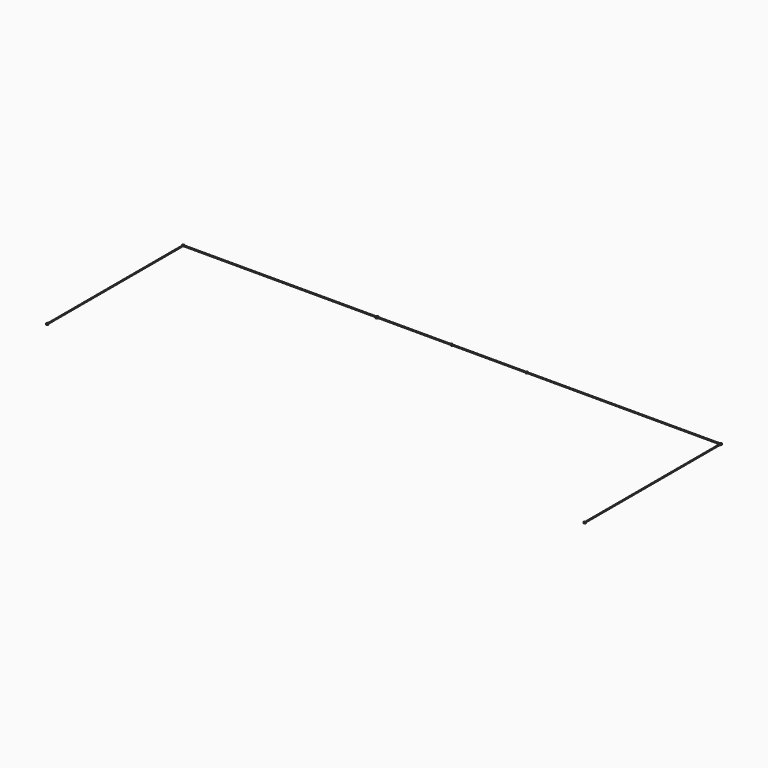
from build123d import *

# Parameters (mm, degrees)
F1_DEPTH = 25
F2_DEPTH = 25


with BuildPart() as f1:
    # F0 (on Top) → F1 (new body)
    with BuildSketch(Plane.XY):
        with BuildLine():
            ThreePointArc((-1815.0893998906, 2.5), (-1815.0223571132, 1.2507989787), (-1815, 0))
            ThreePointArc((-1815, 0), (-1815.0223571132, -1.2507989787), (-1815.0893998906, -2.5))
            Line((-1815.0893998906, -2.5), (-24.8746859277, -2.5))
            ThreePointArc((-24.8746859277, -2.5), (-25, 0), (-24.8746859277, 2.5))
            Line((-24.8746859277, 2.5), (-1815.0893998906, 2.5))
        make_face()
    extrude(amount=F1_DEPTH)


with BuildPart() as f1b:
    # F0 (on Top) → F1, piece 2 (new body)
    with BuildSketch(Plane.XY):
        with BuildLine():
            ThreePointArc((-1884.9106001091, -2.5000000044), (-1885, -3e-09), (-1884.9106001095, 2.4999999984))
            Line((-1884.9106001095, 2.4999999984), (-6625.1253140726, 2.5000000028))
            ThreePointArc((-6625.1253140726, 2.5000000028), (-6625.0313481723, 1.2515693779), (-6625, 0))
            ThreePointArc((-6625, 0), (-6625.0313481722, -1.2515693765), (-6625.1253140723, -2.5))
            Line((-6625.1253140723, -2.5), (-1884.9106001091, -2.5000000044))
        make_face()
    extrude(amount=F1_DEPTH)


with BuildPart() as f1c:
    # F0 (on Top) → F1, piece 3 (new body)
    with BuildSketch(Plane.XY):
        with BuildLine():
            ThreePointArc((-6647.5, -24.8746859277), (-6650, -25), (-6652.5, -24.8746859277))
            Line((-6652.5, -24.8746859277), (-6652.5, -4175.1253140723))
            ThreePointArc((-6652.5, -4175.1253140723), (-6650, -4175), (-6647.5, -4175.1253140723))
            Line((-6647.5, -4175.1253140723), (-6647.5, -24.8746859277))
        make_face()
    extrude(amount=F1_DEPTH)


with BuildPart() as f1d:
    # F0 (on Top) → F1, piece 4 (new body)
    with BuildSketch(Plane.XY):
        with BuildLine():
            Line((1825.1253140723, 2.5), (24.8746859277, 2.5))
            ThreePointArc((24.8746859277, 2.5), (24.9686518278, 1.2515693765), (25, 0))
            ThreePointArc((25, 0), (24.9686518278, -1.2515693765), (24.8746859277, -2.5))
            Line((24.8746859277, -2.5), (1825.1253140723, -2.5))
            ThreePointArc((1825.1253140723, -2.5), (1825, 0), (1825.1253140723, 2.5))
        make_face()
    extrude(amount=F1_DEPTH)


with BuildPart() as f1e:
    # F0 (on Top) → F1, piece 5 (new body)
    with BuildSketch(Plane.XY):
        with BuildLine():
            Line((6625.1253140723, 2.5), (1874.9361429353, 1.7857142857))
            ThreePointArc((1874.9361429353, 1.7857142857), (1874.9840306334, 0.8934278419), (1875, 0))
            ThreePointArc((1875, 0), (1874.9840306334, -0.8934278419), (1874.9361429353, -1.7857142857))
            Line((1874.9361429353, -1.7857142857), (6625.1253140723, -2.5))
            ThreePointArc((6625.1253140723, -2.5), (6625, 0), (6625.1253140723, 2.5))
        make_face()
    extrude(amount=F1_DEPTH)


with BuildPart() as f1f:
    # F0 (on Top) → F1, piece 6 (new body)
    with BuildSketch(Plane.XY):
        with BuildLine():
            ThreePointArc((6652.5, -24.8746859277), (6650, -25), (6647.5, -24.8746859277))
            Line((6647.5, -24.8746859277), (6647.5, -4175.1253140723))
            ThreePointArc((6647.5, -4175.1253140723), (6650, -4175), (6652.5, -4175.1253140723))
            Line((6652.5, -4175.1253140723), (6652.5, -24.8746859277))
        make_face()
    extrude(amount=F1_DEPTH)


with BuildPart() as f2:
    # F0 (on Top) → F2 (new body)
    with BuildSketch(Plane.XY):
        with BuildLine():
            Line((-6652.5, -4200), (-6652.5, -4175.1253140723))
            ThreePointArc((-6652.5, -4175.1253140723), (-6666.7705098312, -4218.5404962177), (-6625, -4200))
            ThreePointArc((-6625, -4200), (-6631.4595037823, -4183.2294901688), (-6647.5, -4175.1253140723))
            Line((-6647.5, -4175.1253140723), (-6647.5, -4200))
            ThreePointArc((-6647.5, -4200), (-6650, -4202.5), (-6652.5, -4200))
        make_face()
        with BuildLine():
            ThreePointArc((-6647.5, -4175.1253140723), (-6650, -4175), (-6652.5, -4175.1253140723))
            Line((-6652.5, -4175.1253140723), (-6652.5, -4200))
            ThreePointArc((-6652.5, -4200), (-6650, -4202.5), (-6647.5, -4200))
            Line((-6647.5, -4200), (-6647.5, -4175.1253140723))
        make_face()
    extrude(amount=F2_DEPTH)


with BuildPart() as f2b:
    # F0 (on Top) → F2, piece 2 (new body)
    with BuildSketch(Plane.XY):
        with BuildLine():
            ThreePointArc((-6625, 0), (-6625.0313481723, 1.2515693779), (-6625.1253140726, 2.5000000028))
            ThreePointArc((-6625.1253140726, 2.5000000028), (-6667.6776695307, 17.6776695287), (-6652.5, -24.8746859277))
            ThreePointArc((-6652.5, -24.8746859277), (-6650, -25), (-6647.5, -24.8746859277))
            ThreePointArc((-6647.5, -24.8746859277), (-6632.3223304703, -17.6776695297), (-6625.1253140723, -2.5))
            ThreePointArc((-6625.1253140723, -2.5), (-6625.0313481722, -1.2515693765), (-6625, 0))
        make_face()
    extrude(amount=F2_DEPTH)


with BuildPart() as f2c:
    # F0 (on Top) → F2, piece 3 (new body)
    with BuildSketch(Plane.XY):
        with BuildLine():
            ThreePointArc((-1815.0893998906, -2.5), (-1815.0223571132, -1.2507989787), (-1815, 0))
            ThreePointArc((-1815, 0), (-1815.0223571132, 1.2507989787), (-1815.0893998906, 2.5))
            ThreePointArc((-1815.0893998906, 2.5), (-1850.0000000008, 35), (-1884.9106001095, 2.4999999984))
            ThreePointArc((-1884.9106001095, 2.4999999984), (-1885, -3e-09), (-1884.9106001091, -2.5000000044))
            ThreePointArc((-1884.9106001091, -2.5000000044), (-1849.9999999978, -35), (-1815.0893998906, -2.5))
        make_face()
    extrude(amount=F2_DEPTH)


with BuildPart() as f2d:
    # F0 (on Top) → F2, piece 4 (new body)
    with BuildSketch(Plane.XY):
        with BuildLine():
            ThreePointArc((24.8746859277, 2.5), (0, 25), (-24.8746859277, 2.5))
            ThreePointArc((-24.8746859277, 2.5), (-25, 0), (-24.8746859277, -2.5))
            ThreePointArc((-24.8746859277, -2.5), (0, -25), (24.8746859277, -2.5))
            ThreePointArc((24.8746859277, -2.5), (24.9686518278, -1.2515693765), (25, 0))
            ThreePointArc((25, 0), (24.9686518278, 1.2515693765), (24.8746859277, 2.5))
        make_face()
    extrude(amount=F2_DEPTH)


with BuildPart() as f2e:
    # F0 (on Top) → F2, piece 5 (new body)
    with BuildSketch(Plane.XY):
        with BuildLine():
            ThreePointArc((1874.9361429353, 1.7857142857), (1850.358462357, 24.9974299627), (1825.1253140723, 2.5))
            ThreePointArc((1825.1253140723, 2.5), (1825, 0), (1825.1253140723, -2.5))
            ThreePointArc((1825.1253140723, -2.5), (1850.358462357, -24.9974299627), (1874.9361429353, -1.7857142857))
            ThreePointArc((1874.9361429353, -1.7857142857), (1874.9840306334, -0.8934278419), (1875, 0))
            ThreePointArc((1875, 0), (1874.9840306334, 0.8934278419), (1874.9361429353, 1.7857142857))
        make_face()
    extrude(amount=F2_DEPTH)


with BuildPart() as f2f:
    # F0 (on Top) → F2, piece 6 (new body)
    with BuildSketch(Plane.XY):
        with BuildLine():
            ThreePointArc((6675, 0), (6651.2515693765, 24.9686518278), (6625.1253140723, 2.5))
            ThreePointArc((6625.1253140723, 2.5), (6625, 0), (6625.1253140723, -2.5))
            ThreePointArc((6625.1253140723, -2.5), (6632.3223304703, -17.6776695297), (6647.5, -24.8746859277))
            ThreePointArc((6647.5, -24.8746859277), (6650, -25), (6652.5, -24.8746859277))
            ThreePointArc((6652.5, -24.8746859277), (6668.5404962177, -16.7705098312), (6675, 0))
        make_face()
    extrude(amount=F2_DEPTH)


with BuildPart() as f2g:
    # F0 (on Top) → F2, piece 7 (new body)
    with BuildSketch(Plane.XY):
        with BuildLine():
            ThreePointArc((6652.5, -4175.1253140723), (6650, -4175), (6647.5, -4175.1253140723))
            ThreePointArc((6647.5, -4175.1253140723), (6633.2294901688, -4218.5404962177), (6675, -4200))
            ThreePointArc((6675, -4200), (6668.5404962177, -4183.2294901688), (6652.5, -4175.1253140723))
        make_face()
    extrude(amount=F2_DEPTH)


solid = Compound([f1.part, f1b.part, f1c.part, f1d.part, f1e.part, f1f.part, f2.part, f2b.part, f2c.part, f2d.part, f2e.part, f2f.part, f2g.part])
